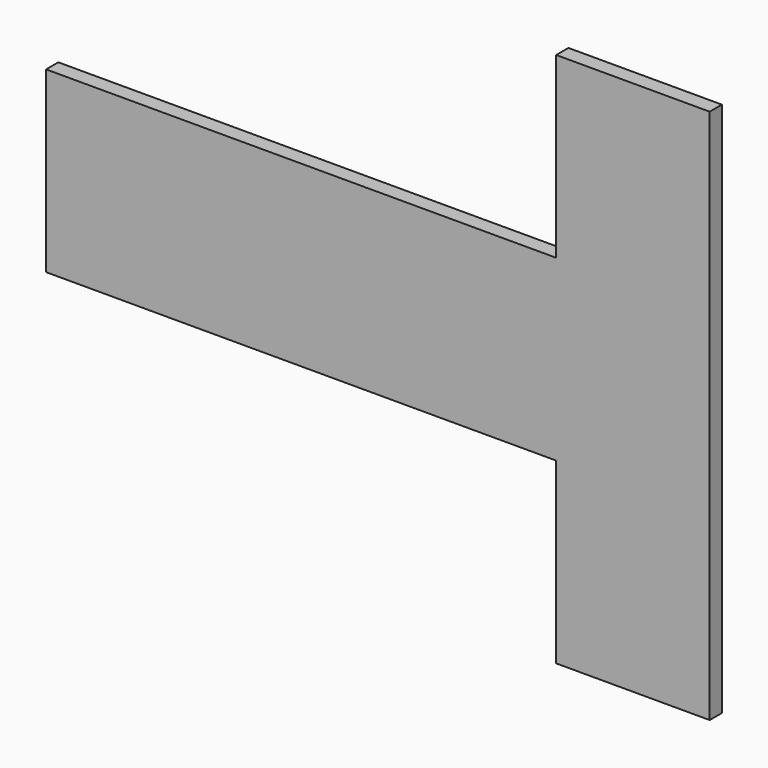
from build123d import *

# Parameters (mm, degrees)
F0_W     = 24.074046
F0_H     = 28
F1_DEPTH = 2.4


with BuildPart() as f1:
    # F0 (on Front) → F1 (new body)
    with BuildSketch(Plane.XZ):
        with Locations((92.037023, 14)):
            Rectangle(F0_W, F0_H)
        Polygon((80, 0), (52, 0), (80, -28), (104.074046, -28), (104.074046, 0), align=None)
        with Locations((92.037023, -42)):
            Rectangle(F0_W, F0_H)
        Polygon((52, 0), (0, 0), (0, -28), (80, -28), align=None)
    extrude(amount=F1_DEPTH)


solid = f1.part
